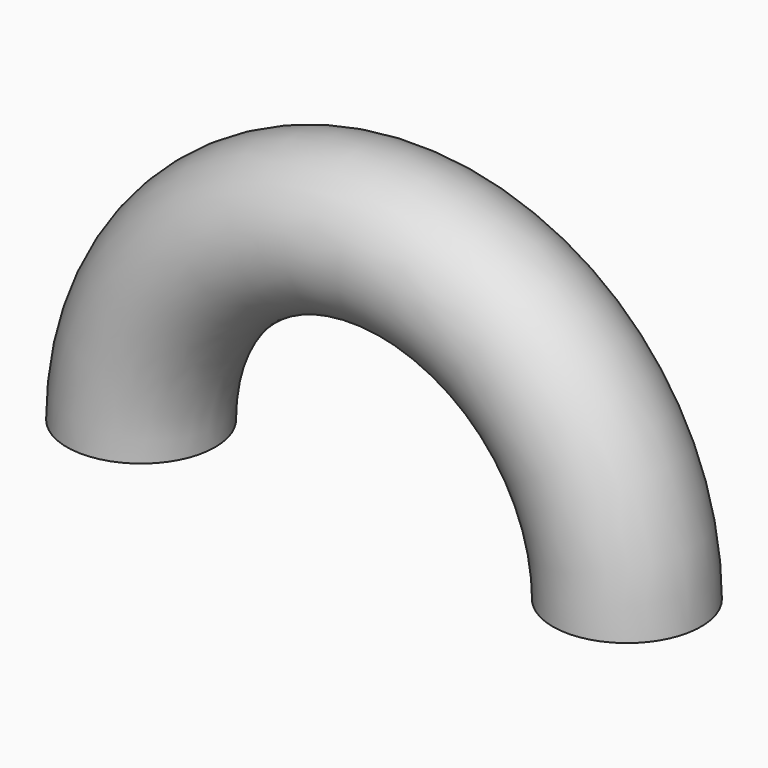
from build123d import *

# Parameters (mm, degrees)
F0_R     = 3.175
F2_ANGLE = 180


with BuildPart() as f2:
    # F0 (on Top) → F2 (revolve)
    with BuildSketch(Plane.XY):
        with Locations((-10.399099, 0)):
            Circle(F0_R)
    revolve(axis=Axis((0, 0.853186, 0), (0, 1, 0)), revolution_arc=F2_ANGLE)


solid = f2.part
